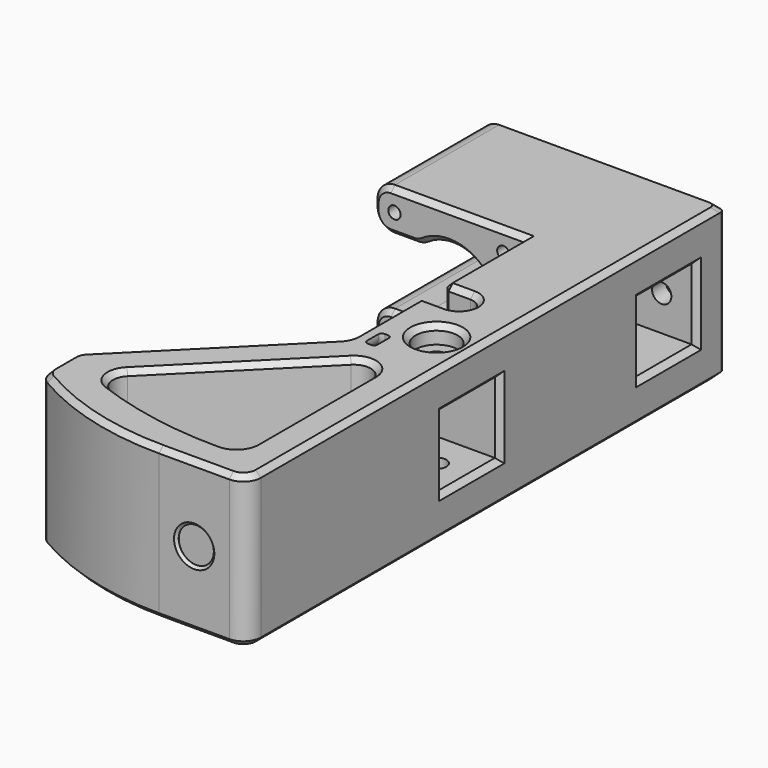
from build123d import *

# Parameters (mm, degrees)
SKETCH_R             = 2.75
PAD_DEPTH            = 21.5
POCKET_DEPTH         = 10.1
SKETCH003_R          = 12.5
SKETCH003_R_2        = 1.75
POCKET001_DEPTH      = 40
HOLE_D               = 3.4
HOLE_DEPTH           = 50
HOLE_CBORE_D         = 6.1
HOLE_CBORE_DEPTH     = 35
HOLE_TIPS_R          = 1.7
SKETCH004_R          = 6
POCKET002_DEPTH      = 5
HOLE001_D            = 5.5
HOLE001_DEPTH        = 25
HOLE001_CBORE_D      = 12
HOLE001_CBORE_DEPTH  = 5
SKETCH006_W          = 31.5
SKETCH006_H          = 60
POCKET003_DEPTH      = 9.5
SKETCH007_W          = 36.9
SKETCH007_H          = 23
POCKET004_DEPTH      = 22
POCKET005_DEPTH      = 25
POCKET005_DEPTH_BACK = 25
POCKET006_DEPTH      = 5
FILLET_R             = 5
CHAMFER_SIZE         = 1.5
FILLET001_R          = 1.5
FILLET002_R          = 2.5
SKETCH015_W          = 3
SKETCH015_H          = 6
FILLET003_R          = 1
POCKET007_DEPTH      = 1
POCKET008_DEPTH      = 1
SKETCH019_R          = 5
POCKET009_DEPTH      = 0.75
CHAMFER001_SIZE      = 0.74


with BuildPart() as part:
    # Sketch → Pad (new body, symmetric)
    with BuildSketch(Plane.XY):
        with BuildLine():
            Line((0, 0), (0, 170))
            Line((0, 170), (-68, 170))
            Line((-68, 170), (-68, 130))
            Line((-68, 130), (-25, 130))
            Line((-25, 130), (-25, 67.5))
            Line((-25, 67.5), (-68, 24.5))
            Line((-68, 24.5), (-68, 12.5))
            ThreePointArc((-68, 12.5), (-47.390009, 3.188369), (-25, 0))
            Line((0, 0), (-25, 0))
        make_face()
        with Locations((-10, 80)):
            Circle(SKETCH_R, mode=Mode.SUBTRACT)
        with BuildLine():
            Line((-10, 14.875), (-10, 56.588573))
            ThreePointArc((-10, 56.588573), (-13.009418, 61.092486), (-18.322146, 60.035719))
            Line((-53.6835, 24.674364), (-18.322146, 60.035719))
            ThreePointArc((-53.6835, 24.674364), (-54.999159, 20.187353), (-51.933066, 16.657012))
            ThreePointArc((-51.933066, 16.657012), (-33.700621, 11.677467), (-14.875, 10))
            ThreePointArc((-14.875, 10), (-11.427854, 11.427854), (-10, 14.875))
        make_face(mode=Mode.SUBTRACT)
    extrude(amount=PAD_DEPTH, both=True)

    # Sketch002 → Pocket (cut, symmetric)
    with BuildSketch(Plane.XY):
        Polygon((-20, 69.9), (0, 69.9), (0, 90.1), (-20, 90.1), (-25, 90.1), (-25, 80), (-20, 80), align=None)
        Polygon((0, 160.1), (-20, 160.1), (-20, 155.06), (-25.04, 155.06), (-40, 155.06), (-40, 150), (-40, 144.94), (-20, 144.94), (-20, 139.9), (0, 139.9), align=None)
    extrude(amount=POCKET_DEPTH, both=True, mode=Mode.SUBTRACT)

    # Sketch003 (on DatumPlane) → Pocket001 (cut)
    with BuildSketch(Plane(origin=(0, 170, 0), x_dir=(-1, 0, 0), z_dir=(0, 1, 0))):
        with Locations((46.5, 0)):
            Circle(SKETCH003_R)
        with Locations((31, 15.5)):
            Circle(SKETCH003_R_2)
        with Locations((62, 15.5)):
            Circle(SKETCH003_R_2)
        with Locations((62, -15.5)):
            Circle(SKETCH003_R_2)
        with Locations((31, -15.5)):
            Circle(SKETCH003_R_2)
    extrude(amount=-POCKET001_DEPTH, mode=Mode.SUBTRACT)

    # Hole
    with Locations(Plane(origin=(0, 170, 0), x_dir=(-1, 0, 0), z_dir=(0, 1, 0))):
        with Locations((46.5, 0), (31, 15.5), (62, 15.5), (62, -15.5), (31, -15.5)):
            CounterBoreHole(HOLE_D / 2, HOLE_CBORE_D / 2, HOLE_CBORE_DEPTH, depth=HOLE_DEPTH)

    # Hole tips → Hole tip 1 section 0
    with BuildSketch(Plane(origin=(0, 120, 0), x_dir=(-1, 0, 0), z_dir=(0, 1, 0)), mode=Mode.PRIVATE) as hole_tip_1_s0:
        with Locations((46.5, 0)):
            Circle(HOLE_TIPS_R)
    loft([hole_tip_1_s0.sketch, Vertex(-46.5, 118.978537, 0)], mode=Mode.SUBTRACT)

    # Hole tips → Hole tip 2 section 0
    with BuildSketch(Plane(origin=(0, 120, 0), x_dir=(-1, 0, 0), z_dir=(0, 1, 0)), mode=Mode.PRIVATE) as hole_tip_2_s0:
        with Locations((31, 15.5)):
            Circle(HOLE_TIPS_R)
    loft([hole_tip_2_s0.sketch, Vertex(-31, 118.978537, 15.5)], mode=Mode.SUBTRACT)

    # Hole tips → Hole tip 3 section 0
    with BuildSketch(Plane(origin=(0, 120, 0), x_dir=(-1, 0, 0), z_dir=(0, 1, 0)), mode=Mode.PRIVATE) as hole_tip_3_s0:
        with Locations((62, 15.5)):
            Circle(HOLE_TIPS_R)
    loft([hole_tip_3_s0.sketch, Vertex(-62, 118.978537, 15.5)], mode=Mode.SUBTRACT)

    # Hole tips → Hole tip 4 section 0
    with BuildSketch(Plane(origin=(0, 120, 0), x_dir=(-1, 0, 0), z_dir=(0, 1, 0)), mode=Mode.PRIVATE) as hole_tip_4_s0:
        with Locations((62, -15.5)):
            Circle(HOLE_TIPS_R)
    loft([hole_tip_4_s0.sketch, Vertex(-62, 118.978537, -15.5)], mode=Mode.SUBTRACT)

    # Hole tips → Hole tip 5 section 0
    with BuildSketch(Plane(origin=(0, 120, 0), x_dir=(-1, 0, 0), z_dir=(0, 1, 0)), mode=Mode.PRIVATE) as hole_tip_5_s0:
        with Locations((31, -15.5)):
            Circle(HOLE_TIPS_R)
    loft([hole_tip_5_s0.sketch, Vertex(-31, 118.978537, -15.5)], mode=Mode.SUBTRACT)

    # Sketch004 (on DatumPlane) → Pocket002 (cut)
    with BuildSketch(Plane(origin=(0, 0, -21.5), x_dir=(1, 0, 0), z_dir=(0, 0, -1))):
        with Locations((-10, -80)):
            Circle(SKETCH004_R)
    pocket002 = extrude(amount=-POCKET002_DEPTH, mode=Mode.SUBTRACT)

    # Mirrored: Pocket002 across XY
    add(pocket002.mirror(Plane.XY), mode=Mode.SUBTRACT)

    # Hole001
    with Locations(Plane(origin=(0, 170, 0), x_dir=(-1, 0, 0), z_dir=(0, 1, 0))):
        with Locations((10, 0)):
            CounterBoreHole(HOLE001_D / 2, HOLE001_CBORE_D / 2, HOLE001_CBORE_DEPTH, depth=HOLE001_DEPTH)

    # Sketch006 → Pocket003 (cut, symmetric)
    with BuildSketch(Plane.XY):
        with Locations((-62.25, 150)):
            Rectangle(SKETCH006_W, SKETCH006_H)
    extrude(amount=POCKET003_DEPTH, both=True, mode=Mode.SUBTRACT)

    # Sketch007 → Pocket004 (cut)
    with BuildSketch(Plane.YZ.offset(-5)):
        with Locations((111.55, 0)):
            Rectangle(SKETCH007_W, SKETCH007_H)
    extrude(amount=-POCKET004_DEPTH, mode=Mode.SUBTRACT)

    # Sketch008 → Pocket005 (cut, two sides)
    with BuildSketch(Plane.XY) as pocket005_sk:
        with BuildLine():
            ThreePointArc((-17.25, 93.1), (-13.25, 97.1), (-17.25, 101.1))
            Line((-17.25, 101.1), (-29.25, 101.1))
            Line((-29.25, 93.1), (-29.25, 101.1))
            Line((-29.25, 93.1), (-17.25, 93.1))
        make_face()
    extrude(amount=-POCKET005_DEPTH, mode=Mode.SUBTRACT)
    extrude(pocket005_sk.sketch, amount=POCKET005_DEPTH_BACK, mode=Mode.SUBTRACT)

    # Sketch010 (on DatumPlane) → Pocket006 (cut)
    with BuildSketch(Plane.XZ.offset(-90.1)):
        Polygon((-20, -8.375), (-25, -8.375), (-25, 8.375), (-20, 8.375), (-18.5, 8.375), (-18.5, -8.375), align=None)
    extrude(amount=-POCKET006_DEPTH, mode=Mode.SUBTRACT)

    # Fillet
    fillet_edges = [part.edges().sort_by_distance(p)[0] for p in [
        (-68, 150, 21.5),
        (-68, 150, 9.5),
        (-68, 150, -9.5),
        (-68, 150, -21.5),
        (-25, 0, 0),
        (-54.624038, 150, -9.5),
        (-54.624038, 150, 9.5),
        (-20, 144.94, 0),
        (-20, 155.06, 0),
        (-68, 12.5, 0),
        (-68, 24.5, 0),
        (-25, 67.5, 0),
        (0, 0, 0),
    ]]
    fillet(fillet_edges, radius=FILLET_R)

    # Chamfer
    chamfer_edges = [part.edges().sort_by_distance(p)[0] for p in [
        (-15, 0, 21.5),
        (-1.464466, 1.464466, 21.5),
        (-45.995121, 2.796506, 21.5),
        (0, 87.5, 21.5),
        (-67.337701, 12.81905, 21.5),
        (-31.5, 170, 21.5),
        (-68, 18.867409, 21.5),
        (-63, 150, 21.5),
        (-67.619398, 24.342349, 21.5),
        (-44, 130, 21.5),
        (-46.5, 46, 21.5),
        (-25, 115.55, 21.5),
        (-25.380602, 67.657651, 21.5),
        (-21.125, 101.1, 21.5),
        (-25, 81.335534, 21.5),
        (-13.25, 97.1, 21.5),
        (-21.125, 93.1, 21.5),
        (-36.002823, 42.355042, 21.5),
        (-54.999159, 20.187353, 21.5),
        (-13.009418, 61.092486, 21.5),
        (-33.700621, 11.677467, 21.5),
        (-10, 35.731787, 21.5),
        (-11.427854, 11.427854, 21.5),
        (-16, 80, 21.5),
        (-15, 0, -21.5),
        (-1.464466, 1.464466, -21.5),
        (-45.995121, 2.796506, -21.5),
        (0, 87.5, -21.5),
        (-67.337701, 12.81905, -21.5),
        (-31.5, 170, -21.5),
        (-68, 18.867409, -21.5),
        (-63, 150, -21.5),
        (-67.619398, 24.342349, -21.5),
        (-44, 130, -21.5),
        (-46.5, 46, -21.5),
        (-25, 115.55, -21.5),
        (-25.380602, 67.657651, -21.5),
        (-21.125, 101.1, -21.5),
        (-25, 81.335534, -21.5),
        (-13.25, 97.1, -21.5),
        (-21.125, 93.1, -21.5),
        (-36.002823, 42.355042, -21.5),
        (-54.999159, 20.187353, -21.5),
        (-13.009418, 61.092486, -21.5),
        (-33.700621, 11.677467, -21.5),
        (-10, 35.731787, -21.5),
        (-11.427854, 11.427854, -21.5),
        (-16, 80, -21.5),
        (-34, 144.94, 0),
        (-34, 155.06, 0),
        (-25, 101.1, -16.5),
        (-25, 101.1, 16.5),
        (-25, 93.1, -16.5),
        (-25, 93.1, 16.5),
        (-16, 170, 0),
        (0, 150, -10.1),
        (0, 160.1, 0),
        (0, 150, 10.1),
        (0, 139.9, 0),
        (0, 90.1, 0),
        (0, 80, 10.1),
        (0, 69.9, 0),
        (0, 80, -10.1),
        (-20, 80, 0),
        (-5, 130, 0),
        (-5, 111.55, 11.5),
        (-5, 93.1, 0),
        (-5, 111.55, -11.5),
        (-25, 115.55, -11.5),
        (-25, 115.55, 11.5),
    ]]
    chamfer(chamfer_edges, length=CHAMFER_SIZE)

    # Fillet001
    fillet001_edges = [part.edges().sort_by_distance(p)[0] for p in [
        (0, 170, 0),
    ]]
    fillet(fillet001_edges, radius=FILLET001_R)

    # Fillet002
    fillet002_edges = [part.edges().sort_by_distance(p)[0] for p in [
        (-0.96967, 169.03033, 20.96967),
        (-0.96967, 169.03033, -20.96967),
    ]]
    fillet(fillet002_edges, radius=FILLET002_R)

    # Sketch015 (on DatumPlane) → Groove (revolve, cut)
    with BuildSketch(Plane.XY.offset(21.5)):
        with Locations((-19.5, 71)):
            Rectangle(SKETCH015_W, SKETCH015_H)
    groove = revolve(axis=Axis((-24.25, 0, 20.75), (0, 1, 0)), mode=Mode.SUBTRACT)

    # Mirrored001: Groove across XY
    add(groove.mirror(Plane.XY), mode=Mode.SUBTRACT)

    # Fillet003
    fillet003_edges = [part.edges().sort_by_distance(p)[0] for p in [
        (-21.986132, 68, -18.30053),
        (-19.89021, 68, -16.20938),
        (-21.891505, 74, -18.391505),
        (-19.798877, 74, -16.298877),
        (-19.798877, 74, 16.298877),
        (-21.891505, 74, 18.391505),
        (-21.986132, 68, 18.30053),
        (-19.89021, 68, 16.20938),
    ]]
    fillet(fillet003_edges, radius=FILLET003_R)

    # Sketch018 (on DatumPlane) → Pocket007 (cut)
    with BuildSketch(Plane(origin=(-59.685029, 32.814971, 11), x_dir=(0, 0, -1), z_dir=(-0.707107, 0.707107, 0))):
        with BuildLine():
            Line((-1.5, -28), (-1.5, -24.954959))
            ThreePointArc((-24.954959, -1.5), (-17.67767, -17.67767), (-1.5, -24.954959))
            Line((-24.954959, -1.5), (-28, -1.5))
            Line((-28, -1.5), (-28, 1.5))
            Line((-28, 1.5), (-24.954959, 1.5))
            ThreePointArc((-1.5, 24.954959), (-17.67767, 17.67767), (-24.954959, 1.5))
            Line((-1.5, 24.954959), (-1.5, 28))
            Line((-1.5, 28), (1.5, 28))
            Line((1.5, 28), (1.5, 24.954959))
            ThreePointArc((24.954959, 1.5), (17.67767, 17.67767), (1.5, 24.954959))
            Line((24.954959, 1.5), (28, 1.5))
            Line((28, 1.5), (28, -1.5))
            Line((28, -1.5), (24.954959, -1.5))
            ThreePointArc((1.5, -24.954959), (17.67767, -17.67767), (24.954959, -1.5))
            Line((1.5, -24.954959), (1.5, -28))
            Line((1.5, -28), (-1.5, -28))
        make_face()
        with BuildLine():
            Line((8, -1.5), (8, 1.5))
            Line((8, 1.5), (21.948804, 1.5))
            ThreePointArc((21.948804, 1.5), (15.556349, 15.556349), (1.5, 21.948804))
            Line((1.5, 21.948804), (1.5, 17))
            Line((1.5, 17), (-1.5, 17))
            Line((-1.5, 17), (-1.5, 21.948804))
            ThreePointArc((-1.5, 21.948804), (-15.556349, 15.556349), (-21.948804, 1.5))
            Line((-21.948804, 1.5), (-17, 1.5))
            Line((-17, 1.5), (-17, -1.5))
            Line((-17, -1.5), (-21.948804, -1.5))
            ThreePointArc((-21.948804, -1.5), (-15.556349, -15.556349), (-1.5, -21.948804))
            Line((-1.5, -21.948804), (-1.5, -8))
            Line((-1.5, -8), (1.5, -8))
            Line((1.5, -8), (1.5, -21.948804))
            ThreePointArc((1.5, -21.948804), (15.556349, -15.556349), (21.948804, -1.5))
            Line((21.948804, -1.5), (8, -1.5))
        make_face(mode=Mode.SUBTRACT)
    extrude(amount=-POCKET007_DEPTH, mode=Mode.SUBTRACT)

    # Sketch017 (on DatumPlane) → Pocket008 (cut)
    with BuildSketch(Plane(origin=(-59.685029, 32.814971, 11), x_dir=(0, 0, -1), z_dir=(-0.707107, 0.707107, 0))):
        Polygon((-1.5, -1.5), (-5, -1.5), (-5, 1.5), (-1.5, 1.5), (-1.5, 5), (1.5, 5), (1.5, 1.5), (5, 1.5), (5, -1.5), (1.5, -1.5), (1.5, -5), (-1.5, -5), align=None)
    extrude(amount=-POCKET008_DEPTH, mode=Mode.SUBTRACT)

    # Sketch019 (on DatumPlane) → Pocket009 (cut)
    with BuildSketch(Plane.XZ):
        with Locations((-15, 0)):
            Circle(SKETCH019_R)
    extrude(amount=-POCKET009_DEPTH, mode=Mode.SUBTRACT)

    # Chamfer001
    chamfer001_edges = [part.edges().sort_by_distance(p)[0] for p in [
        (-20, 0, 0),
    ]]
    chamfer(chamfer001_edges, length=CHAMFER001_SIZE)


solid = part.part
